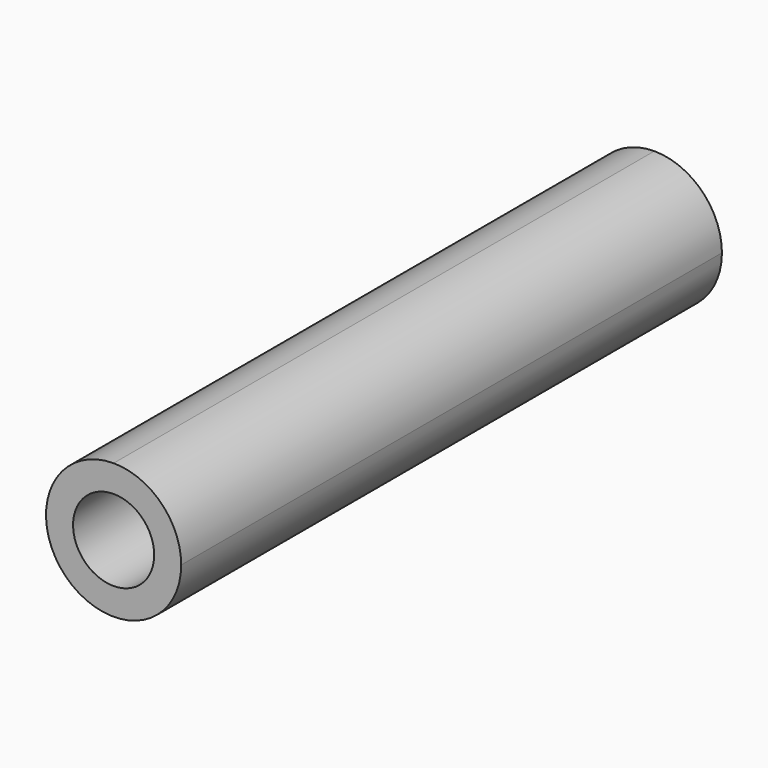
from build123d import *

# Parameters (mm, degrees)
F1_DEPTH = 6
F2_DEPTH = 3
F3_DEPTH = 25
F4_DEPTH = 25


with BuildPart() as f1:
    # F0 (on Front) → F1 (new body)
    with BuildSketch(Plane.XZ):
        with BuildLine():
            ThreePointArc((-30.070162, 46.37237), (-35.632137, 46.568408), (-41.166509, 47.155549))
            ThreePointArc((-41.166509, 47.155549), (-30.070162, -22.199768), (-18.973814, 47.155549))
            ThreePointArc((-18.973814, 47.155549), (-24.508186, 46.568408), (-30.070162, 46.37237))
        make_face()
        with BuildLine():
            ThreePointArc((-22.570162, 13.365558), (-35.373463, 8.062257), (-30.070162, 20.865558))
            ThreePointArc((-30.070162, 20.865558), (-24.766861, 18.668859), (-22.570162, 13.365558))
        make_face(mode=Mode.SUBTRACT)
    extrude(amount=F1_DEPTH)

    # F0 (on Front) → F2 (join)
    with BuildSketch(Plane.XZ):
        with BuildLine():
            ThreePointArc((-30.070162, 56.279502), (-36.966771, 53.357463), (-41.166509, 47.155549))
            ThreePointArc((-41.166509, 47.155549), (-35.632137, 46.568408), (-30.070162, 46.37237))
            Line((-30.070162, 46.37237), (-30.070162, 50.721558))
            ThreePointArc((-30.070162, 50.721558), (-32.070162, 52.721558), (-30.070162, 54.721558))
            Line((-30.070162, 54.721558), (-30.070162, 56.279502))
        make_face()
        with BuildLine():
            ThreePointArc((-30.070162, 46.37237), (-24.508186, 46.568408), (-18.973814, 47.155549))
            ThreePointArc((-18.973814, 47.155549), (-23.173552, 53.357463), (-30.070162, 56.279502))
            Line((-30.070162, 56.279502), (-30.070162, 54.721558))
            ThreePointArc((-30.070162, 54.721558), (-28.655948, 54.135772), (-28.070162, 52.721558))
            ThreePointArc((-28.070162, 52.721558), (-28.655948, 51.307344), (-30.070162, 50.721558))
            Line((-30.070162, 50.721558), (-30.070162, 46.37237))
        make_face()
    extrude(amount=F2_DEPTH)


with BuildPart() as f3:
    # F0 (on Front) → F3 (new body)
    with BuildSketch(Plane.XZ):
        with BuildLine():
            ThreePointArc((-27.570162, 13.365558), (-28.302395, 15.133325), (-30.070162, 15.865558))
            ThreePointArc((-30.070162, 15.865558), (-31.837929, 11.597791), (-27.570162, 13.365558))
        make_face()
        with BuildLine():
            ThreePointArc((-28.570162, 13.365558), (-31.130822, 12.304898), (-30.070162, 14.865558))
            ThreePointArc((-30.070162, 14.865558), (-29.009502, 14.426218), (-28.570162, 13.365558))
        make_face(mode=Mode.SUBTRACT)
    extrude(amount=F3_DEPTH)


with BuildPart() as f4:
    # F0 (on Front) → F4 (new body)
    with BuildSketch(Plane.XZ):
        with BuildLine():
            ThreePointArc((-22.570162, 13.365558), (-24.766861, 18.668859), (-30.070162, 20.865558))
            ThreePointArc((-30.070162, 20.865558), (-35.373463, 8.062257), (-22.570162, 13.365558))
        make_face()
        with BuildLine():
            ThreePointArc((-27.570162, 13.365558), (-31.837929, 11.597791), (-30.070162, 15.865558))
            ThreePointArc((-30.070162, 15.865558), (-28.302395, 15.133325), (-27.570162, 13.365558))
        make_face(mode=Mode.SUBTRACT)
    extrude(amount=-F4_DEPTH)


solid = f3.part
